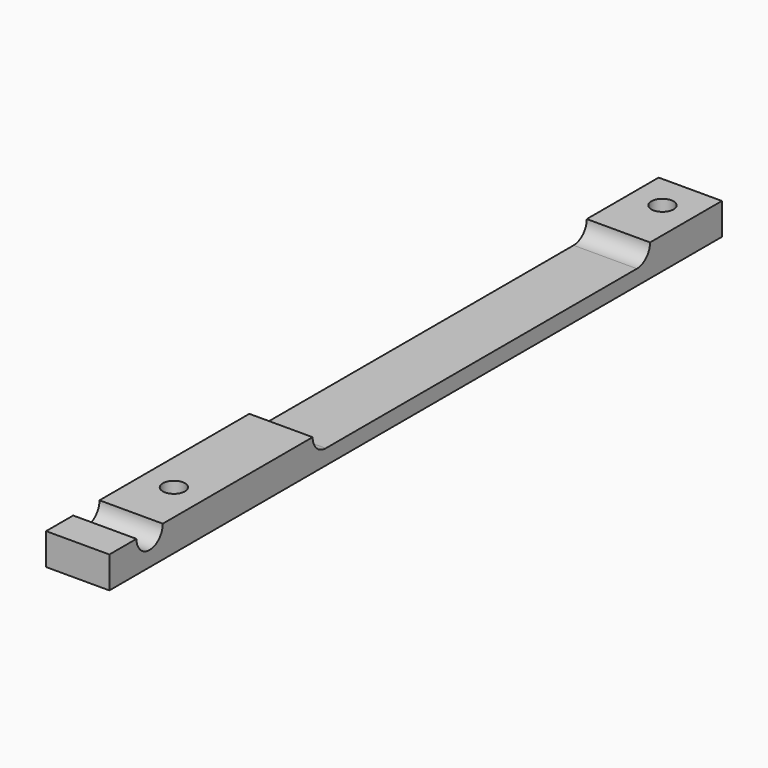
from build123d import *

# Parameters (mm, degrees)
SKETCH055_W          = 10
SKETCH055_H          = 121
SKETCH055_R          = 1.75
PAD026_DEPTH         = 5
SKETCH056_R          = 2.6
POCKET026_DEPTH      = 0.001
POCKET026_DEPTH_BACK = 542.783232
CHAMFER002_SIZE      = 1.75


with BuildPart() as part:
    # Sketch055 → Pad026 (new body)
    with BuildSketch(Plane.XY):
        with Locations((537.782232, -339.706519)):
            Rectangle(SKETCH055_W, SKETCH055_H)
        with Locations((537.782232, -381.20917)):
            Circle(SKETCH055_R, mode=Mode.SUBTRACT)
        with Locations((537.782232, -284.706588)):
            Circle(SKETCH055_R, mode=Mode.SUBTRACT)
    extrude(amount=PAD026_DEPTH)

    # Sketch056 → Pocket026 (cut, two sides)
    with BuildSketch(Plane.YZ) as pocket026_sk:
        with Locations((-392.25561, 5)):
            Circle(SKETCH056_R)
        with BuildLine():
            ThreePointArc((-357.457814, 7.6), (-360.057814, 5), (-357.457814, 2.4))
            Line((-357.457814, 2.4), (-296.002518, 2.4))
            ThreePointArc((-296.002518, 2.4), (-293.402518, 5), (-296.002518, 7.6))
            Line((-357.457814, 7.6), (-296.002518, 7.6))
        make_face()
    extrude(amount=-POCKET026_DEPTH, mode=Mode.SUBTRACT)
    extrude(pocket026_sk.sketch, amount=POCKET026_DEPTH_BACK, mode=Mode.SUBTRACT)

    # Chamfer002
    chamfer002_edges = [part.edges().sort_by_distance(p)[0] for p in [
        (536.032232, -381.20917, 0),
        (536.032232, -284.706588, 0),
    ]]
    chamfer(chamfer002_edges, length=CHAMFER002_SIZE)


solid = part.part
